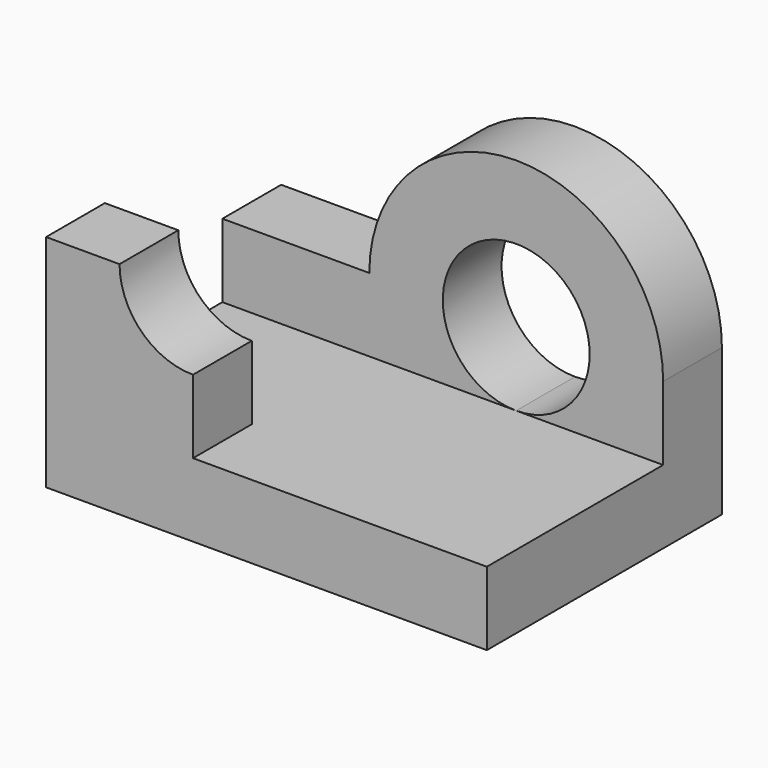
from build123d import *

# Parameters (mm, degrees)
F0_W      = 60
F0_H      = 40
F1_DEPTH  = 10
F2_W      = 60
F2_H      = 10
F3_DEPTH  = 10
F5_DEPTH  = 10
F7_DEPTH  = 10
F8_W      = 20
F8_H      = 10
F9_DEPTH  = 20
F11_DEPTH = 10


with BuildPart() as f1:
    # F0 (on Top) → F1 (new body)
    with BuildSketch(Plane.XY):
        Rectangle(F0_W, F0_H)
    extrude(amount=F1_DEPTH)

    # F2 (on face) → F3 (join)
    with BuildSketch(Plane.XY.offset(10)):
        with Locations((0, 15)):
            Rectangle(F2_W, F2_H)
    extrude(amount=F3_DEPTH)

    # F4 (on face) → F5 (join)
    with BuildSketch(Plane.XZ.offset(-10)):
        with BuildLine():
            Line((-10, 20), (30, 20))
            ThreePointArc((30, 20), (10, 40), (-10, 20))
        make_face()
    extrude(amount=-F5_DEPTH)

    # F6 (on face) → F7 (cut)
    with BuildSketch(Plane.XZ.offset(-10)):
        with BuildLine():
            ThreePointArc((10, 10), (17.071068, 12.928932), (20, 20))
            ThreePointArc((20, 20), (2.928932, 27.071068), (10, 10))
        make_face()
    extrude(amount=-F7_DEPTH, mode=Mode.SUBTRACT)

    # F8 (on face) → F9 (join)
    with BuildSketch(Plane.XY.offset(10)):
        with Locations((-20, -15)):
            Rectangle(F8_W, F8_H)
    extrude(amount=F9_DEPTH)

    # F10 (on face) → F11 (cut)
    with BuildSketch(Plane.XZ.offset(20)):
        with BuildLine():
            Line((-10, 30), (-20, 30))
            ThreePointArc((-20, 30), (-17.071068, 22.928932), (-10, 20))
            Line((-10, 20), (-10, 30))
        make_face()
    extrude(amount=-F11_DEPTH, mode=Mode.SUBTRACT)


solid = f1.part
